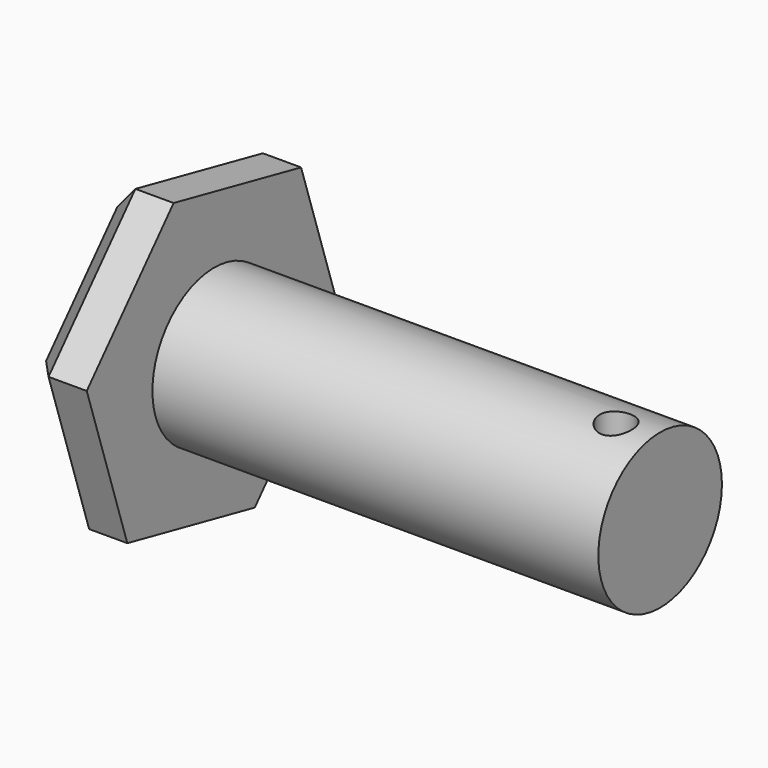
from build123d import *

# Parameters (mm, degrees)
F0_R          = 15.399925
F1_DEPTH      = 101.6
F2_R          = 15.399925
F3_DEPTH      = 12.7
F4_SIZE       = 5.08
F5_R          = 3.511723
F6_DEPTH      = 32.301025
F6_DEPTH_BACK = 29.379094


with BuildPart() as f1:
    # F0 (on Right) → F1 (new body)
    with BuildSketch(Plane.YZ):
        with Locations((0.243489, 1.460966)):
            Circle(F0_R)
    extrude(amount=F1_DEPTH)

    # F2 (on face) → F3 (join)
    with BuildSketch(Plane(origin=(0, 0, 0), x_dir=(0, -1, 0), z_dir=(-1, 0, 0))):
        Polygon((31.521783, 8.120019), (9.872238, 32.300025), (-21.893034, 25.640972), (-32.008761, -5.198088), (-10.359216, -29.378094), (21.406057, -22.71904), align=None)
        with Locations((-0.243489, 1.460966)):
            Circle(F2_R, mode=Mode.SUBTRACT)
    extrude(amount=-F3_DEPTH)

    # F4
    f4_edges = [f1.edges().sort_by_distance(p)[0] for p in [
        (0, 26.950898, 10.221442),
        (0, 6.010398, 28.970498),
        (0, -20.697011, 20.210022),
        (0, -26.46392, -7.299511),
        (0, -5.52342, -26.048567),
        (0, 21.183988, -17.288091),
    ]]
    chamfer(f4_edges, length=F4_SIZE)

    # F5 (on Top) → F6 (cut, two sides)
    with BuildSketch(Plane.XY) as f6_sk:
        with Locations((93.988761, -1.217474)):
            Circle(F5_R)
    extrude(amount=F6_DEPTH, mode=Mode.SUBTRACT)
    extrude(f6_sk.sketch, amount=-F6_DEPTH_BACK, mode=Mode.SUBTRACT)


solid = f1.part
